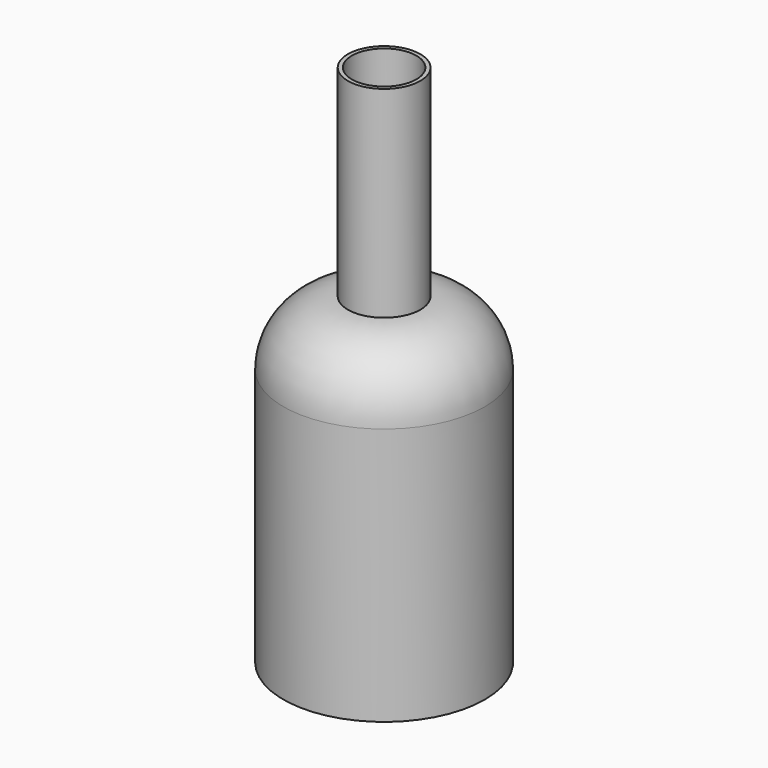
from build123d import *

# Parameters (mm, degrees)
F0_R     = 63.5
F1_DEPTH = 203.2
F2_R     = 40.64
F3_DEPTH = 127
F4_T     = -2.54


with BuildPart() as f1:
    # F0 (on Top) → F1 (new body)
    with BuildSketch(Plane.XY):
        Circle(F0_R)
    extrude(amount=F1_DEPTH)

    # F2
    f2_edges = [f1.edges().sort_by_distance(p)[0] for p in [
        (-63.5, 0, 203.2),
    ]]
    fillet(f2_edges, radius=F2_R)

    # F3 (add): a face of the model
    f3_faces = [f1.faces().sort_by_distance(p)[0] for p in [
        (0, 0, 203.2),
    ]]
    extrude(f3_faces, amount=F3_DEPTH)

    # F4
    f4_openings = [f1.faces().sort_by_distance(p)[0] for p in [
        (0, 0, 330.2),
    ]]
    offset(amount=F4_T, openings=f4_openings, kind=Kind.INTERSECTION)


solid = f1.part
